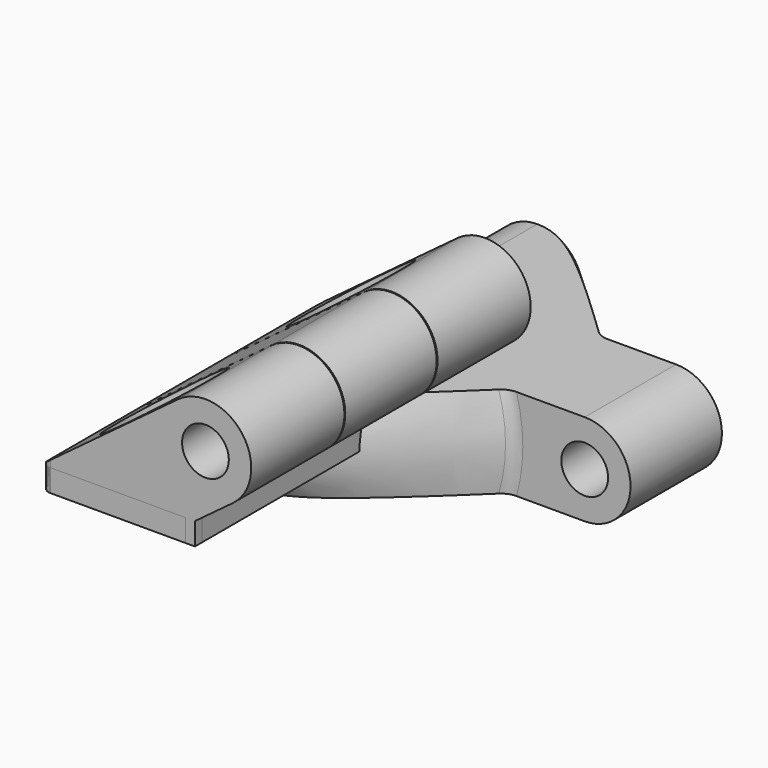
from build123d import *

# Parameters (mm, degrees)
SKETCH004_R          = 2.55
PAD001_DEPTH         = 38.1
HOLE001_D            = 6
HOLE001_CBORE_D      = 11
HOLE001_CBORE_DEPTH  = 20
SKETCH006_W          = 12.7
SKETCH006_H          = 20
POCKET001_DEPTH      = 8.378624
POCKET001_DEPTH_BACK = -14.526
FILLET001_R          = 1
FILLET002_R          = 1
SKETCH009_R          = 2.55
PAD002_DEPTH         = 38.1
HOLE002_D            = 6
HOLE002_CBORE_D      = 11
HOLE002_CBORE_DEPTH  = 20
SKETCH008_W          = 20
SKETCH008_H          = 20
POCKET002_DEPTH      = 8.378624
POCKET002_DEPTH_BACK = -14.526
FILLET_R             = 1
FILLET003_R          = 1
POCKET_DEPTH         = 19.051
POCKET_DEPTH_BACK    = -19.051
SKETCH011_R          = 2.55
PAD_DEPTH            = 6.23
POCKET003_DEPTH      = 5.001
POCKET003_DEPTH_BACK = -5.001
FILLET004_R          = 2


with BuildPart() as hinge_a:
    # Sketch004 → Pad001 (new body)
    with BuildSketch(Plane.XZ):
        with BuildLine():
            Line((-8.377624, 2.44), (6.54086, 13.536846))
            ThreePointArc((12.50914, 5.513154), (13.536846, 12.50914), (6.54086, 13.536846))
            Line((12.50914, 5.513154), (8.377624, 2.44))
            Line((8.377624, 2.44), (8.377624, 0))
            Line((8.377624, 0), (-8.377624, 0))
            Line((-8.377624, 2.44), (-8.377624, 0))
        make_face()
        with Locations((9.525, 9.525)):
            Circle(SKETCH004_R, mode=Mode.SUBTRACT)
    extrude(amount=PAD001_DEPTH)

    # Hole001 (through all)
    with Locations(Plane.XY.offset(22.44)):
        with Locations((0, -6.35), (0, -31.75)):
            CounterBoreHole(HOLE001_D / 2, HOLE001_CBORE_D / 2, HOLE001_CBORE_DEPTH)

    # Sketch006 → Pocket001 (cut, two sides)
    with BuildSketch(Plane.YZ) as pocket001_sk:
        with Locations((-19.05, 12.44)):
            Rectangle(SKETCH006_W, SKETCH006_H)
    extrude(amount=-POCKET001_DEPTH, mode=Mode.SUBTRACT)
    extrude(pocket001_sk.sketch, amount=-POCKET001_DEPTH_BACK, mode=Mode.SUBTRACT)

    # Fillet001
    fillet001_edges = [hinge_a.edges().sort_by_distance(p)[0] for p in [
        (-8.377624, -38.1, 1.22),
        (-8.377624, 0, 1.22),
    ]]
    fillet(fillet001_edges, radius=FILLET001_R)

    # Fillet002
    fillet002_edges = [hinge_a.edges().sort_by_distance(p)[0] for p in [
        (0, -25.4, 2.44),
        (0, -12.7, 2.44),
    ]]
    fillet(fillet002_edges, radius=FILLET002_R)


with BuildPart() as hinge_b:
    # Sketch009 → Pad002 (new body)
    with BuildSketch(Plane.XZ):
        with BuildLine():
            Line((-8.377624, 2.44), (6.54086, 13.536846))
            ThreePointArc((12.50914, 5.513154), (13.536846, 12.50914), (6.54086, 13.536846))
            Line((12.50914, 5.513154), (8.377624, 2.44))
            Line((8.377624, 2.44), (8.377624, 0))
            Line((8.377624, 0), (-8.377624, 0))
            Line((-8.377624, 2.44), (-8.377624, 0))
        make_face()
        with Locations((9.525, 9.525)):
            Circle(SKETCH009_R, mode=Mode.SUBTRACT)
    extrude(amount=PAD002_DEPTH)

    # Hole002 (through all)
    with Locations(Plane.XY.offset(22.44)):
        with Locations((0, -6.35), (0, -31.75)):
            CounterBoreHole(HOLE002_D / 2, HOLE002_CBORE_D / 2, HOLE002_CBORE_DEPTH)

    # Sketch008 → Pocket002 (cut, two sides)
    with BuildSketch(Plane.YZ) as pocket002_sk:
        with Locations((-35.28, 12.44)):
            Rectangle(SKETCH008_W, SKETCH008_H)
        with Locations((-2.82, 12.44)):
            Rectangle(SKETCH008_W, SKETCH008_H)
    extrude(amount=-POCKET002_DEPTH, mode=Mode.SUBTRACT)
    extrude(pocket002_sk.sketch, amount=-POCKET002_DEPTH_BACK, mode=Mode.SUBTRACT)

    # Fillet
    fillet_edges = [hinge_b.edges().sort_by_distance(p)[0] for p in [
        (8.377624, -38.1, 1.22),
        (-8.377624, -38.1, 1.22),
        (-8.377624, 0, 1.22),
        (8.377624, 0, 1.22),
    ]]
    fillet(fillet_edges, radius=FILLET_R)

    # Fillet003
    fillet003_edges = [hinge_b.edges().sort_by_distance(p)[0] for p in [
        (0, -12.82, 2.44),
        (0, -25.28, 2.44),
    ]]
    fillet(fillet003_edges, radius=FILLET003_R)


with BuildPart() as hinge_c:
    # Sketch → Revolution (revolve)
    with BuildSketch(Plane.XY):
        Polygon((2.55, 19.05), (5, 19.05), (19.61871, 4.43129), (19.61871, -4.43129), (5, -19.05), (2.55, -19.05), align=None)
    revolve(axis=Axis((0, 0, 0), (0, 1, 0)))

    # Sketch010 → Pocket (cut, two sides)
    with BuildSketch(Plane.XZ) as pocket_sk:
        with BuildLine():
            ThreePointArc((0, 5), (-5, 0), (0, -5))
            Line((76.42244, -5), (0, -5))
            Line((76.42244, -50.302998), (76.42244, -5))
            Line((-42.638504, -50.302998), (76.42244, -50.302998))
            Line((-42.638504, 50.107578), (-42.638504, -50.302998))
            Line((76.42244, 50.107578), (-42.638504, 50.107578))
            Line((76.42244, 5), (76.42244, 50.107578))
            Line((0, 5), (76.42244, 5))
        make_face()
    extrude(amount=-POCKET_DEPTH, mode=Mode.SUBTRACT)
    extrude(pocket_sk.sketch, amount=-POCKET_DEPTH_BACK, mode=Mode.SUBTRACT)

    # Sketch011 → Pad (join, symmetric)
    with BuildSketch(Plane.XZ):
        with BuildLine():
            ThreePointArc((25.4, -5), (30.4, 0), (25.4, 5))
            Line((25.4, 5), (7, 5))
            Line((7, 5), (7, -5))
            Line((7, -5), (25.4, -5))
        make_face()
        with Locations((25.4, 0)):
            Circle(SKETCH011_R, mode=Mode.SUBTRACT)
    extrude(amount=PAD_DEPTH, both=True)

    # Sketch012 → Pocket003 (cut, two sides)
    with BuildSketch(Plane.XY) as pocket003_sk:
        with BuildLine():
            Line((-20.030668, 6.35), (5, 6.35))
            ThreePointArc((6, 5.35), (5.707107, 6.057107), (5, 6.35))
            Line((6, 5.35), (6, -5.35))
            ThreePointArc((5, -6.35), (5.707107, -6.057107), (6, -5.35))
            Line((5, -6.35), (-20.030668, -6.35))
            Line((-20.030668, -6.35), (-20.030668, 6.35))
        make_face()
    extrude(amount=-POCKET003_DEPTH, mode=Mode.SUBTRACT)
    extrude(pocket003_sk.sketch, amount=-POCKET003_DEPTH_BACK, mode=Mode.SUBTRACT)

    # Fillet004
    fillet004_edges = [hinge_c.edges().sort_by_distance(p)[0] for p in [
        (17.640133, 6.23, -2.525491),
        (17.640133, 6.23, 2.525491),
        (17.640133, -6.23, 2.525491),
        (17.640133, -6.23, -2.525491),
    ]]
    fillet(fillet004_edges, radius=FILLET004_R)


solid = Compound([hinge_a.part, hinge_b.part, hinge_c.part])
